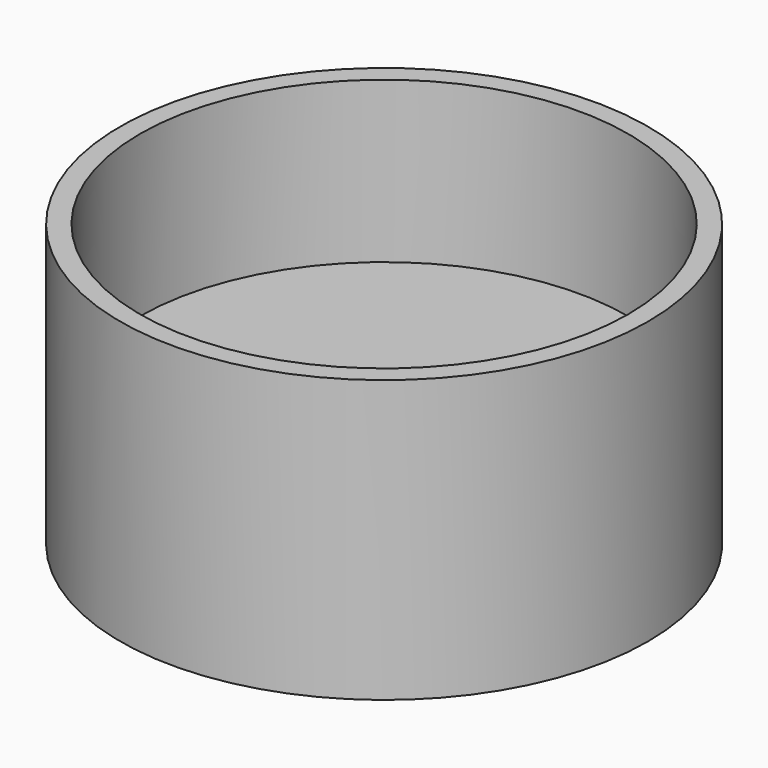
from build123d import *

# Parameters (mm, degrees)
F0_R     = 30
F1_DEPTH = 13.75
F2_R     = 30
F2_R_2   = 27.75
F3_DEPTH = 18.25
F5_D     = 13.67
F5_DEPTH = 13.75


with BuildPart() as f1:
    # F0 (on Top) → F1 (new body)
    with BuildSketch(Plane.XY):
        Circle(F0_R)
    extrude(amount=F1_DEPTH)

    # F2 (on face) → F3 (join)
    with BuildSketch(Plane.XY.offset(13.75)):
        Circle(F2_R)
        Circle(F2_R_2, mode=Mode.SUBTRACT)
    extrude(amount=F3_DEPTH)

    # F5
    with Locations(Plane(origin=(0, 0, 0), x_dir=(1, 0, 0), z_dir=(0, 0, -1))):
        with Locations((0, 0)):
            Hole(F5_D / 2, depth=F5_DEPTH)


solid = f1.part
